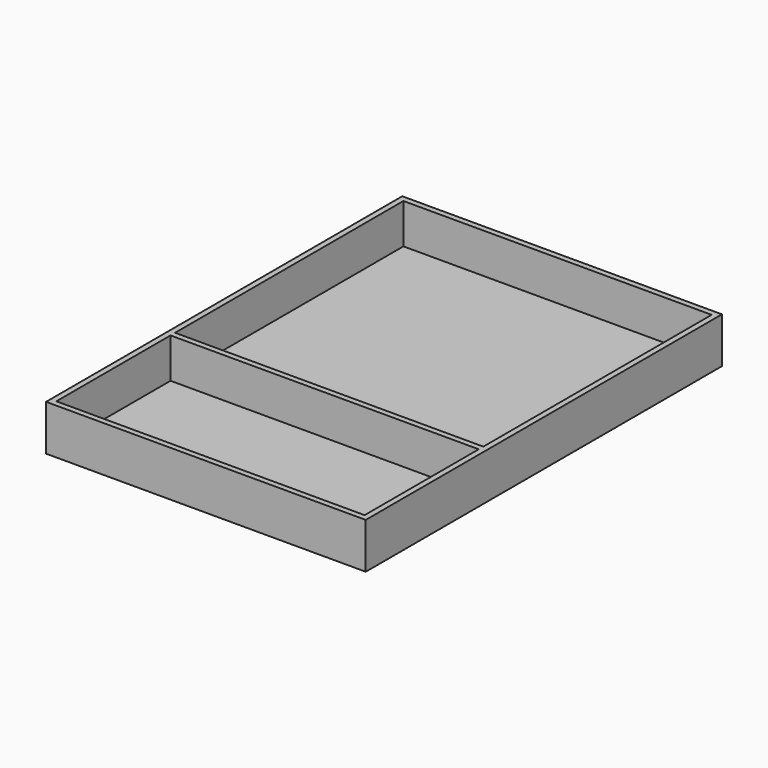
from build123d import *

# Parameters (mm, degrees)
F0_W     = 711.2
F0_H     = 990.6
F0_W_2   = 685.8
F0_H_2   = 317.5
F0_H_3   = 635
F0_H_4   = 12.7
F1_DEPTH = 101.6
F2_DEPTH = 88.9


with BuildPart() as f1:
    # F0 (on Top) → F1 (new body)
    with BuildSketch(Plane.XY):
        Rectangle(F0_W, F0_H)
        Polygon((342.9, -482.6), (-342.9, -482.6), (-342.9, -165.1), (-342.9, -152.4), (-342.9, 482.6), (342.9, 482.6), (342.9, -152.4), (342.9, -165.1), align=None, mode=Mode.SUBTRACT)
        with Locations((0, -323.85)):
            Rectangle(F0_W_2, F0_H_2)
        with Locations((0, 165.1)):
            Rectangle(F0_W_2, F0_H_3)
        with Locations((0, -158.75)):
            Rectangle(F0_W_2, F0_H_4)
    extrude(amount=-F1_DEPTH)

    # F0 (on Top) → F2 (cut, through all)
    with BuildSketch(Plane.XY):
        with Locations((0, 165.1)):
            Rectangle(F0_W_2, F0_H_3)
        with Locations((0, -323.85)):
            Rectangle(F0_W_2, F0_H_2)
    extrude(amount=-F2_DEPTH, mode=Mode.SUBTRACT)


solid = f1.part
